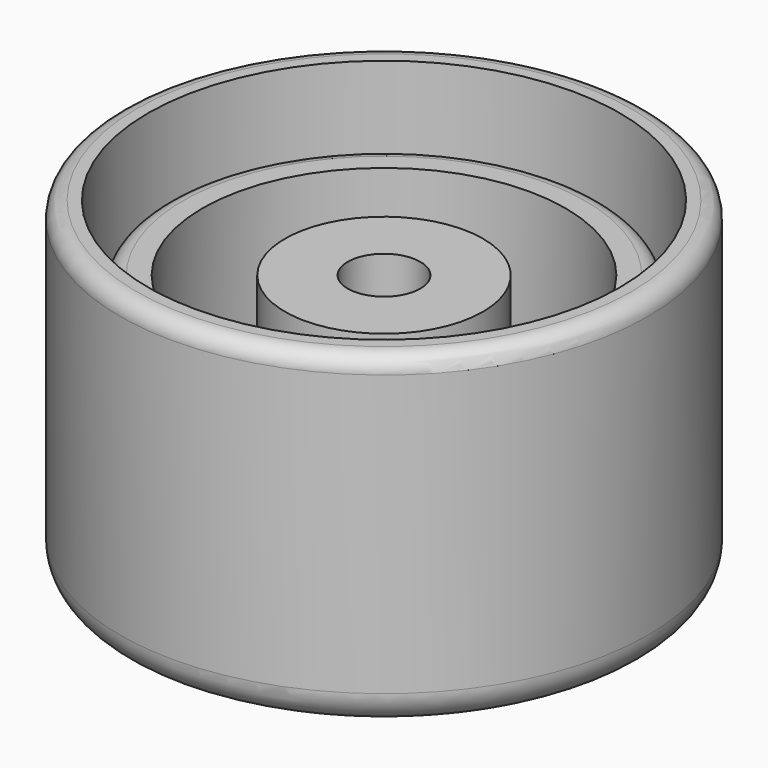
from build123d import *

# Parameters (mm, degrees)
F0_R        = 6.6
F0_R_2      = 5.5
F1_DEPTH    = 6
F0_R_3      = 7.15
F0_R_4      = 3
F2_DEPTH    = 0.5
F0_R_5      = 8
F3_DEPTH    = 8
F0_R_6      = 1.1
F4_DEPTH    = 6
F5_R        = 0.5
F4_FACE_R   = 8
F4_FACE_R_2 = 1.1
F6_DEPTH    = 2
F7_R        = 1


with BuildPart() as f1:
    # F0 (on Top) → F1 (new body)
    with BuildSketch(Plane.XY):
        Circle(F0_R)
        Circle(F0_R_2, mode=Mode.SUBTRACT)
    extrude(amount=F1_DEPTH)

    # F0 (on Top) → F2 (join)
    with BuildSketch(Plane.XY):
        Circle(F0_R_3)
        Circle(F0_R, mode=Mode.SUBTRACT)
        Circle(F0_R_2)
        Circle(F0_R_4, mode=Mode.SUBTRACT)
    extrude(amount=F2_DEPTH)

    # F0 (on Top) → F3 (join)
    with BuildSketch(Plane.XY):
        Circle(F0_R_5)
        Circle(F0_R_3, mode=Mode.SUBTRACT)
    extrude(amount=F3_DEPTH)

    # F0 (on Top) → F4 (join)
    with BuildSketch(Plane.XY):
        Circle(F0_R_4)
        Circle(F0_R_6, mode=Mode.SUBTRACT)
    extrude(amount=F4_DEPTH)

    # F5
    f5_edges = [f1.edges().sort_by_distance(p)[0] for p in [
        (-6.6, 0, 6),
        (-8, 0, 8),
    ]]
    fillet(f5_edges, radius=F5_R)

    # F4_face (on face) → F6 (join)
    with BuildSketch(Plane(origin=(0, 0, 0), x_dir=(1, 0, 0), z_dir=(0, 0, -1))):
        Circle(F4_FACE_R)
        Circle(F4_FACE_R_2, mode=Mode.SUBTRACT)
    extrude(amount=F6_DEPTH)

    # F7
    f7_edges = [f1.edges().sort_by_distance(p)[0] for p in [
        (-8, 0, -2),
    ]]
    fillet(f7_edges, radius=F7_R)


solid = f1.part
